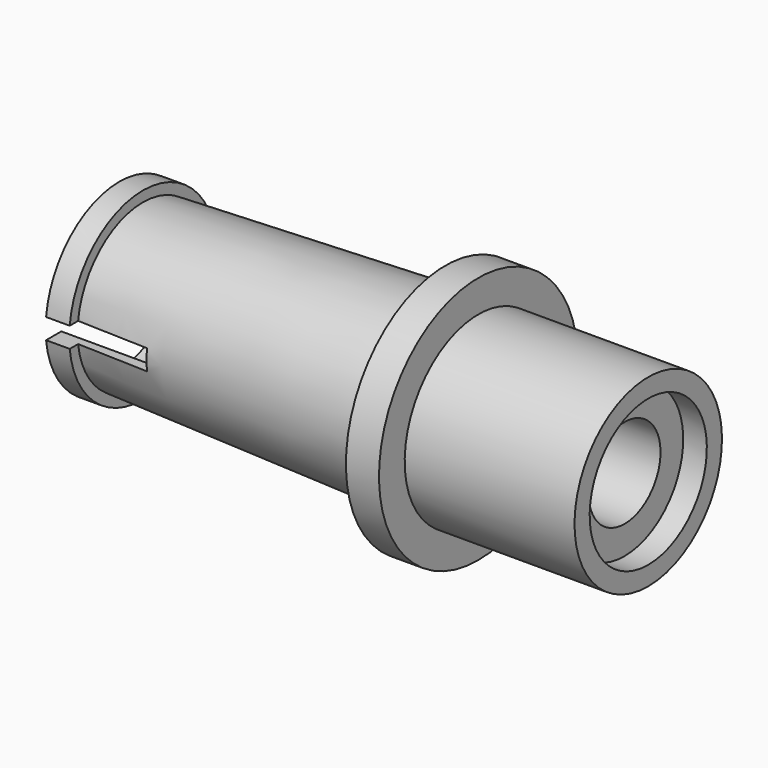
from build123d import *

# Parameters (mm, degrees)
F3_DEPTH = 5.08
F4_DEPTH = 25.4


with BuildPart() as f1:
    # F0 (on Front) → F1 (revolve)
    with BuildSketch(Plane.XZ):
        Polygon((9.6376508882, -9.0882862558), (1.2556508882, -9.0882862558), (1.2556508882, -6.6752862558), (0, -6.6752862558), (0, -9.0882862558), (-4.9383663572, -9.0882862558), (-4.9383663572, -10.6122862558), (-16.2532180548, -10.6122862558), (-17.5232180548, -10.6122862558), (-17.5232180548, -11.6282862558), (-16.2532180548, -11.6282862558), (-16.2532180548, -11.0669787973), (0, -11.6282862558), (0, -13.3554862558), (1.778, -13.3554862558), (1.778, -11.6282862558), (10.9076508882, -11.6282862558), (10.9076508882, -10.6122862558), (9.6376508882, -10.6122862558), align=None)
    revolve(axis=Axis((-3.3077835833, 0, -6.6752862558), (-1, 0, 0)))

    # F2 (on face) → F3 (cut)
    with BuildSketch(Plane(origin=(-17.5232180548, 0, 0), x_dir=(0, -1, 0), z_dir=(-1, 0, 0))):
        with BuildLine():
            Line((-3.8987080534, -6.1275230643), (-4.9226176457, -6.1275230643))
            ThreePointArc((-4.9226176457, -6.1275230643), (-4.953, -6.6752862558), (-4.9226176457, -7.2230494473))
            Line((-4.9226176457, -7.2230494473), (-3.8987080534, -7.2230494473))
            ThreePointArc((-3.8987080534, -7.2230494473), (-3.937, -6.6752862558), (-3.8987080534, -6.1275230643))
        make_face()
        with BuildLine():
            ThreePointArc((4.953, -6.6752862558), (4.9453985784, -6.400983685), (4.9226176457, -6.1275230643))
            Line((4.9226176457, -6.1275230643), (3.8987080534, -6.1275230643))
            ThreePointArc((3.8987080534, -6.1275230643), (3.9274153464, -6.4007362662), (3.937, -6.6752862558))
            ThreePointArc((3.937, -6.6752862558), (3.9274153464, -6.9498362454), (3.8987080534, -7.2230494473))
            Line((3.8987080534, -7.2230494473), (4.9226176457, -7.2230494473))
            ThreePointArc((4.9226176457, -7.2230494473), (4.9453985784, -6.9495888266), (4.953, -6.6752862558))
        make_face()
    extrude(amount=-F3_DEPTH, mode=Mode.SUBTRACT)

    # F4 (cut): a face of the model
    f4_faces = [f1.faces().sort_by_distance(p)[0] for p in [
        (1.2556508882, 0, -6.6752862558),
    ]]
    extrude(f4_faces, amount=-F4_DEPTH, mode=Mode.SUBTRACT)


solid = f1.part
